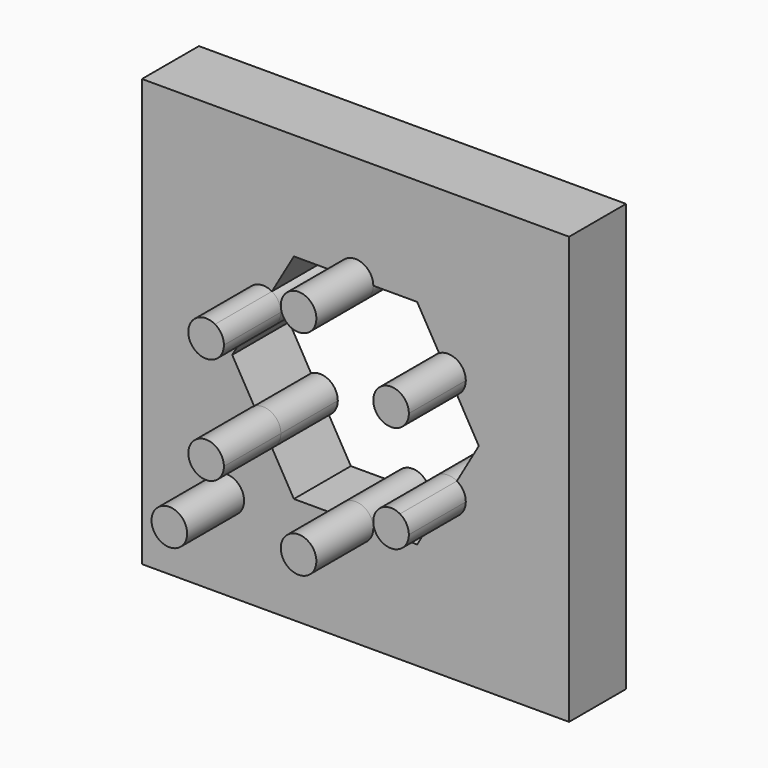
from build123d import *

# Parameters (mm, degrees)
F0_W     = 152.4
F0_H     = 152.4
F0_R     = 6.35
F1_DEPTH = 25.4
F2_DEPTH = 25.4


with BuildPart() as f1:
    # F0 (on Front) → F1 (new body)
    with BuildSketch(Plane.XZ):
        Rectangle(F0_W, F0_H)
        with Locations((-46.1145695052, -44.4354765854)):
            Circle(F0_R, mode=Mode.SUBTRACT)
        with BuildLine():
            ThreePointArc((-6.35, 38.1), (0, 44.45), (6.35, 38.1))
            Line((6.35, 38.1), (21.9970452561, 38.1))
            Line((21.9970452561, 38.1), (29.8205678842, 24.549261314))
            ThreePointArc((29.8205678842, 24.549261314), (36.1705678842, 24.549261314), (39.3455678842, 19.05))
            ThreePointArc((39.3455678842, 19.05), (38.4948291982, 15.875), (36.1705678842, 13.550738686))
            Line((36.1705678842, 13.550738686), (43.9940905122, 0))
            Line((43.9940905122, 0), (36.1705678842, -13.550738686))
            ThreePointArc((36.1705678842, -13.550738686), (38.4948291982, -15.875), (39.3455678842, -19.05))
            ThreePointArc((39.3455678842, -19.05), (36.1705678842, -24.549261314), (29.8205678842, -24.549261314))
            Line((29.8205678842, -24.549261314), (21.9970452561, -38.1))
            Line((21.9970452561, -38.1), (6.35, -38.1))
            ThreePointArc((6.35, -38.1), (0, -44.45), (-6.35, -38.1))
            Line((-6.35, -38.1), (-21.9970452561, -38.1))
            Line((-21.9970452561, -38.1), (-29.8205678842, -24.549261314))
            ThreePointArc((-29.8205678842, -24.549261314), (-38.4948291982, -22.225), (-36.1705678842, -13.550738686))
            Line((-36.1705678842, -13.550738686), (-43.9940905122, 0))
            Line((-43.9940905122, 0), (-36.1705678842, 13.550738686))
            ThreePointArc((-36.1705678842, 13.550738686), (-38.4948291982, 22.225), (-29.8205678842, 24.549261314))
            Line((-29.8205678842, 24.549261314), (-21.9970452561, 38.1))
            Line((-21.9970452561, 38.1), (-6.35, 38.1))
        make_face(mode=Mode.SUBTRACT)
        with BuildLine():
            Line((-29.8205678842, -24.549261314), (-36.1705678842, -13.550738686))
            ThreePointArc((-36.1705678842, -13.550738686), (-38.4948291982, -22.225), (-29.8205678842, -24.549261314))
        make_face()
        with BuildLine():
            ThreePointArc((-26.6455678842, -19.05), (-29.8205678842, -13.550738686), (-36.1705678842, -13.550738686))
            Line((-36.1705678842, -13.550738686), (-29.8205678842, -24.549261314))
            ThreePointArc((-29.8205678842, -24.549261314), (-27.4963065702, -22.225), (-26.6455678842, -19.05))
        make_face()
        with BuildLine():
            Line((-36.1705678842, 13.550738686), (-29.8205678842, 24.549261314))
            ThreePointArc((-29.8205678842, 24.549261314), (-38.4948291982, 22.225), (-36.1705678842, 13.550738686))
        make_face()
        with BuildLine():
            ThreePointArc((-26.6455678842, 19.05), (-27.4963065702, 22.225), (-29.8205678842, 24.549261314))
            Line((-29.8205678842, 24.549261314), (-36.1705678842, 13.550738686))
            ThreePointArc((-36.1705678842, 13.550738686), (-29.8205678842, 13.550738686), (-26.6455678842, 19.05))
        make_face()
        with BuildLine():
            Line((-6.35, 38.1), (6.35, 38.1))
            ThreePointArc((6.35, 38.1), (0, 44.45), (-6.35, 38.1))
        make_face()
        with BuildLine():
            ThreePointArc((-6.35, 38.1), (0, 31.75), (6.35, 38.1))
            Line((6.35, 38.1), (-6.35, 38.1))
        make_face()
        with BuildLine():
            Line((36.1705678842, 13.550738686), (29.8205678842, 24.549261314))
            ThreePointArc((29.8205678842, 24.549261314), (27.4963065702, 15.875), (36.1705678842, 13.550738686))
        make_face()
        with BuildLine():
            ThreePointArc((39.3455678842, 19.05), (36.1705678842, 24.549261314), (29.8205678842, 24.549261314))
            Line((29.8205678842, 24.549261314), (36.1705678842, 13.550738686))
            ThreePointArc((36.1705678842, 13.550738686), (38.4948291982, 15.875), (39.3455678842, 19.05))
        make_face()
        with BuildLine():
            Line((29.8205678842, -24.549261314), (36.1705678842, -13.550738686))
            ThreePointArc((36.1705678842, -13.550738686), (27.4963065702, -15.875), (29.8205678842, -24.549261314))
        make_face()
        with BuildLine():
            ThreePointArc((39.3455678842, -19.05), (38.4948291982, -15.875), (36.1705678842, -13.550738686))
            Line((36.1705678842, -13.550738686), (29.8205678842, -24.549261314))
            ThreePointArc((29.8205678842, -24.549261314), (36.1705678842, -24.549261314), (39.3455678842, -19.05))
        make_face()
        with BuildLine():
            Line((-6.35, -38.1), (6.35, -38.1))
            ThreePointArc((6.35, -38.1), (0, -31.75), (-6.35, -38.1))
        make_face()
        with BuildLine():
            ThreePointArc((-6.35, -38.1), (0, -44.45), (6.35, -38.1))
            Line((6.35, -38.1), (-6.35, -38.1))
        make_face()
        with Locations((-46.1145695052, -44.4354765854)):
            Circle(F0_R)
    extrude(amount=-F1_DEPTH)

    # F0 (on Front) → F2 (join)
    with BuildSketch(Plane.XZ):
        with BuildLine():
            Line((-36.1705678842, 13.550738686), (-29.8205678842, 24.549261314))
            ThreePointArc((-29.8205678842, 24.549261314), (-38.4948291982, 22.225), (-36.1705678842, 13.550738686))
        make_face()
        with BuildLine():
            ThreePointArc((-26.6455678842, 19.05), (-27.4963065702, 22.225), (-29.8205678842, 24.549261314))
            Line((-29.8205678842, 24.549261314), (-36.1705678842, 13.550738686))
            ThreePointArc((-36.1705678842, 13.550738686), (-29.8205678842, 13.550738686), (-26.6455678842, 19.05))
        make_face()
        with BuildLine():
            Line((-29.8205678842, -24.549261314), (-36.1705678842, -13.550738686))
            ThreePointArc((-36.1705678842, -13.550738686), (-38.4948291982, -22.225), (-29.8205678842, -24.549261314))
        make_face()
        with BuildLine():
            ThreePointArc((-26.6455678842, -19.05), (-29.8205678842, -13.550738686), (-36.1705678842, -13.550738686))
            Line((-36.1705678842, -13.550738686), (-29.8205678842, -24.549261314))
            ThreePointArc((-29.8205678842, -24.549261314), (-27.4963065702, -22.225), (-26.6455678842, -19.05))
        make_face()
        with BuildLine():
            Line((-6.35, -38.1), (6.35, -38.1))
            ThreePointArc((6.35, -38.1), (0, -31.75), (-6.35, -38.1))
        make_face()
        with BuildLine():
            ThreePointArc((-6.35, -38.1), (0, -44.45), (6.35, -38.1))
            Line((6.35, -38.1), (-6.35, -38.1))
        make_face()
        with BuildLine():
            Line((36.1705678842, 13.550738686), (29.8205678842, 24.549261314))
            ThreePointArc((29.8205678842, 24.549261314), (27.4963065702, 15.875), (36.1705678842, 13.550738686))
        make_face()
        with BuildLine():
            ThreePointArc((39.3455678842, 19.05), (36.1705678842, 24.549261314), (29.8205678842, 24.549261314))
            Line((29.8205678842, 24.549261314), (36.1705678842, 13.550738686))
            ThreePointArc((36.1705678842, 13.550738686), (38.4948291982, 15.875), (39.3455678842, 19.05))
        make_face()
        with BuildLine():
            Line((29.8205678842, -24.549261314), (36.1705678842, -13.550738686))
            ThreePointArc((36.1705678842, -13.550738686), (27.4963065702, -15.875), (29.8205678842, -24.549261314))
        make_face()
        with BuildLine():
            ThreePointArc((39.3455678842, -19.05), (38.4948291982, -15.875), (36.1705678842, -13.550738686))
            Line((36.1705678842, -13.550738686), (29.8205678842, -24.549261314))
            ThreePointArc((29.8205678842, -24.549261314), (36.1705678842, -24.549261314), (39.3455678842, -19.05))
        make_face()
        with BuildLine():
            Line((-6.35, 38.1), (6.35, 38.1))
            ThreePointArc((6.35, 38.1), (0, 44.45), (-6.35, 38.1))
        make_face()
        with BuildLine():
            ThreePointArc((-6.35, 38.1), (0, 31.75), (6.35, 38.1))
            Line((6.35, 38.1), (-6.35, 38.1))
        make_face()
        with Locations((-46.1145695052, -44.4354765854)):
            Circle(F0_R)
    extrude(amount=F2_DEPTH)


solid = f1.part
